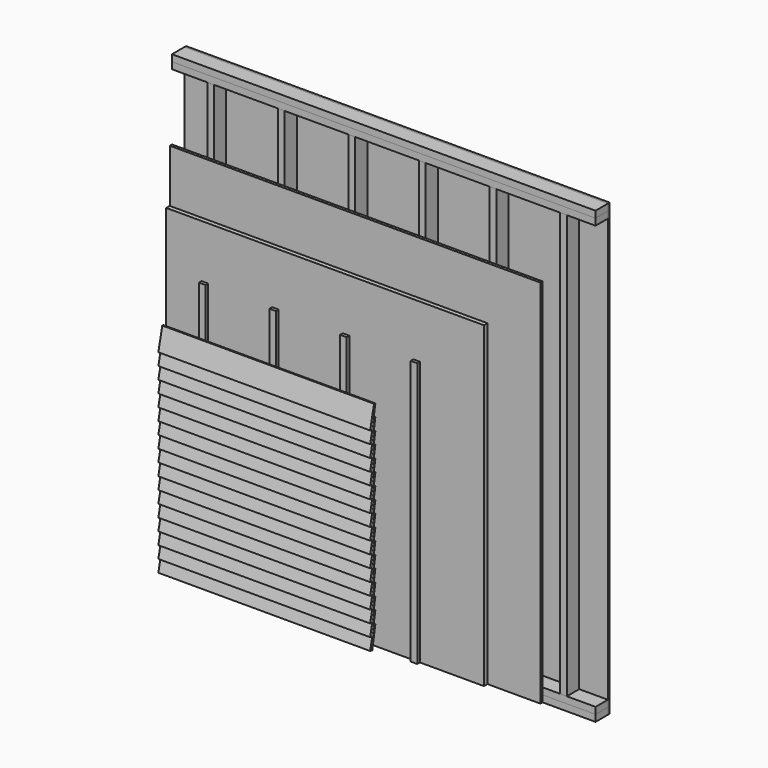
from build123d import *

# Parameters (mm, degrees)
F0_W      = 88.9
F0_H      = 38.1
F1_DEPTH  = 1219.2
F2_DEPTH  = 1219.2
F3_W      = 38.1
F3_H      = 88.9
F4_DEPTH  = 2438.4
F6_DEPTH  = 2438.4
F7_DEPTH  = 2133.6
F5_W      = 25.4
F5_H      = 1828.8
F8_DEPTH  = 1828.8
F9_W      = 38.1
F9_H      = 1524
F9_H_2    = 76.2
F9_H_3    = 1447.8
F10_DEPTH = 19.05
F12_DEPTH = 1219.2


with BuildPart() as f1:
    # F0 (on Right) → F1 (new body, symmetric)
    with BuildSketch(Plane.YZ):
        with Locations((0, -1276.35)):
            Rectangle(F0_W, F0_H)
        with Locations((0, 1276.35)):
            Rectangle(F0_W, F0_H)
    extrude(amount=F1_DEPTH, both=True)


with BuildPart() as f2:
    # F0 (on Right) → F2 (new body, symmetric)
    with BuildSketch(Plane.YZ):
        with Locations((0, 1238.25)):
            Rectangle(F0_W, F0_H)
        with Locations((0, -1238.25)):
            Rectangle(F0_W, F0_H)
    extrude(amount=F2_DEPTH, both=True)


with BuildPart() as f4:
    # F3 (on face) → F4 (new body, through all)
    with BuildSketch(Plane.XY.offset(-1219.2)):
        with Locations((-996.95, 0)):
            Rectangle(F3_W, F3_H)
        with Locations((-590.55, 0)):
            Rectangle(F3_W, F3_H)
        with Locations((-184.15, 0)):
            Rectangle(F3_W, F3_H)
        with Locations((222.25, 0)):
            Rectangle(F3_W, F3_H)
        with Locations((628.65, 0)):
            Rectangle(F3_W, F3_H)
        with Locations((1035.05, 0)):
            Rectangle(F3_W, F3_H)
    extrude(amount=F4_DEPTH)


with BuildPart() as f6:
    # F5 (on face) → F6 (new body, through all)
    with BuildSketch(Plane(origin=(-1219.2, 0, 0), x_dir=(0, -1, 0), z_dir=(-1, 0, 0))):
        Polygon((-57.15, -1295.4), (-44.45, -1295.4), (-44.45, -1257.3), (-44.45, 1257.3), (-44.45, 1295.4), (-57.15, 1295.4), align=None)
    extrude(amount=-F6_DEPTH)


with BuildPart() as f7:
    # F5 (on face) → F7 (new body)
    with BuildSketch(Plane(origin=(-1219.2, 0, 0), x_dir=(0, -1, 0), z_dir=(-1, 0, 0))):
        Polygon((44.45, -1257.3), (44.45, -1295.4), (60.325, -1295.4), (60.325, 533.4), (60.325, 838.2), (44.45, 838.2), align=None)
    extrude(amount=-F7_DEPTH)


with BuildPart() as f8:
    # F5 (on face) → F8 (new body)
    with BuildSketch(Plane(origin=(-1219.2, 0, 0), x_dir=(0, -1, 0), z_dir=(-1, 0, 0))):
        with Locations((73.025, -381)):
            Rectangle(F5_W, F5_H)
    extrude(amount=-F8_DEPTH)


with BuildPart() as f10:
    # F9 (on face) → F10 (new body)
    with BuildSketch(Plane.XZ.offset(85.725)):
        with Locations((-590.55, -533.4)):
            Rectangle(F9_W, F9_H)
        with Locations((-184.15, -533.4)):
            Rectangle(F9_W, F9_H)
        with Locations((222.25, -533.4)):
            Rectangle(F9_W, F9_H)
        with Locations((-996.95, -1257.3)):
            Rectangle(F9_W, F9_H_2)
        with Locations((-996.95, -495.3)):
            Rectangle(F9_W, F9_H_3)
    extrude(amount=F10_DEPTH)


with BuildPart() as f12:
    # F11 (on face) → F12 (new body)
    with BuildSketch(Plane(origin=(-1219.2, 0, 0), x_dir=(0, -1, 0), z_dir=(-1, 0, 0))):
        Polygon((114.155294, -1168.831853), (104.775, -1170.485851), (126.800735, -1295.4), (142.434558, -1292.643335), (127.098074, -1225.497571), (126.800735, -1225.55), (125.753467, -1219.61065), align=None)
        Polygon((114.155294, -1098.981853), (104.775, -1100.635851), (125.753467, -1219.61065), (127.098074, -1225.497571), (142.434558, -1222.793335), (127.098074, -1155.647571), (126.800735, -1155.7), (125.753467, -1149.76065), align=None)
        Polygon((114.155294, -1029.131853), (104.775, -1030.785851), (125.753467, -1149.76065), (127.098074, -1155.647571), (142.434558, -1152.943335), (127.098074, -1085.797571), (126.800735, -1085.85), (125.753467, -1079.91065), align=None)
        Polygon((114.155294, -959.281853), (104.775, -960.935851), (125.753467, -1079.91065), (127.098074, -1085.797571), (142.434558, -1083.093335), (127.098074, -1015.947571), (126.800735, -1016), (125.753467, -1010.06065), align=None)
        Polygon((114.155294, -889.431853), (104.775, -891.085851), (125.753467, -1010.06065), (127.098074, -1015.947571), (142.434558, -1013.243335), (127.098074, -946.097571), (126.800735, -946.15), (125.753467, -940.21065), align=None)
        Polygon((114.155294, -819.581853), (104.775, -821.235851), (125.753467, -940.21065), (127.098074, -946.097571), (142.434558, -943.393335), (127.098074, -876.247571), (126.800735, -876.3), (125.753467, -870.36065), align=None)
        Polygon((114.155294, -749.731853), (104.775, -751.385851), (125.753467, -870.36065), (127.098074, -876.247571), (142.434558, -873.543335), (127.098074, -806.397571), (126.800735, -806.45), (125.753467, -800.51065), align=None)
        Polygon((114.155294, -679.881853), (104.775, -681.535851), (125.753467, -800.51065), (127.098074, -806.397571), (142.434558, -803.693335), (127.098074, -736.547571), (126.800735, -736.6), (125.753467, -730.66065), align=None)
        Polygon((114.155294, -610.031853), (104.775, -611.685851), (125.753467, -730.66065), (127.098074, -736.547571), (142.434558, -733.843335), (127.098074, -666.697571), (126.800735, -666.75), (125.753467, -660.81065), align=None)
        Polygon((114.155294, -540.181853), (104.775, -541.835851), (125.753467, -660.81065), (127.098074, -666.697571), (142.434558, -663.993335), (127.098074, -596.847571), (126.800735, -596.9), (125.753467, -590.96065), align=None)
        Polygon((114.155294, -470.331853), (104.775, -471.985851), (125.753467, -590.96065), (127.098074, -596.847571), (142.434558, -594.143335), (127.098074, -526.997571), (126.800735, -527.05), (125.753467, -521.11065), align=None)
        Polygon((114.155294, -400.481853), (104.775, -402.135851), (125.753467, -521.11065), (127.098074, -526.997571), (142.434558, -524.293335), (127.098074, -457.147571), (126.800735, -457.2), (125.753467, -451.26065), align=None)
        Polygon((114.155294, -330.631853), (104.775, -332.285851), (125.753467, -451.26065), (127.098074, -457.147571), (142.434558, -454.443335), (127.098074, -387.297571), (126.800735, -387.35), (125.753467, -381.41065), align=None)
        Polygon((114.155294, -260.781853), (104.775, -262.435851), (125.753467, -381.41065), (127.098074, -387.297571), (142.434558, -384.593335), (127.098074, -317.447571), (126.800735, -317.5), (125.753467, -311.56065), align=None)
        Polygon((114.155294, -190.931853), (104.775, -192.585851), (125.753467, -311.56065), (127.098074, -317.447571), (142.434558, -314.743335), (127.098074, -247.597571), (126.800735, -247.65), (125.753467, -241.71065), align=None)
        Polygon((114.155294, -121.081853), (104.775, -122.735851), (125.753467, -241.71065), (127.098074, -247.597571), (142.434558, -244.893335), (127.098074, -177.747571), (126.800735, -177.8), (125.753467, -171.86065), align=None)
        Polygon((114.155294, -51.231853), (104.775, -52.885851), (125.753467, -171.86065), (127.098074, -177.747571), (142.434558, -175.043335), align=None)
    extrude(amount=-F12_DEPTH)


solid = Compound([f1.part, f2.part, f4.part, f6.part, f7.part, f8.part, f10.part, f12.part])
